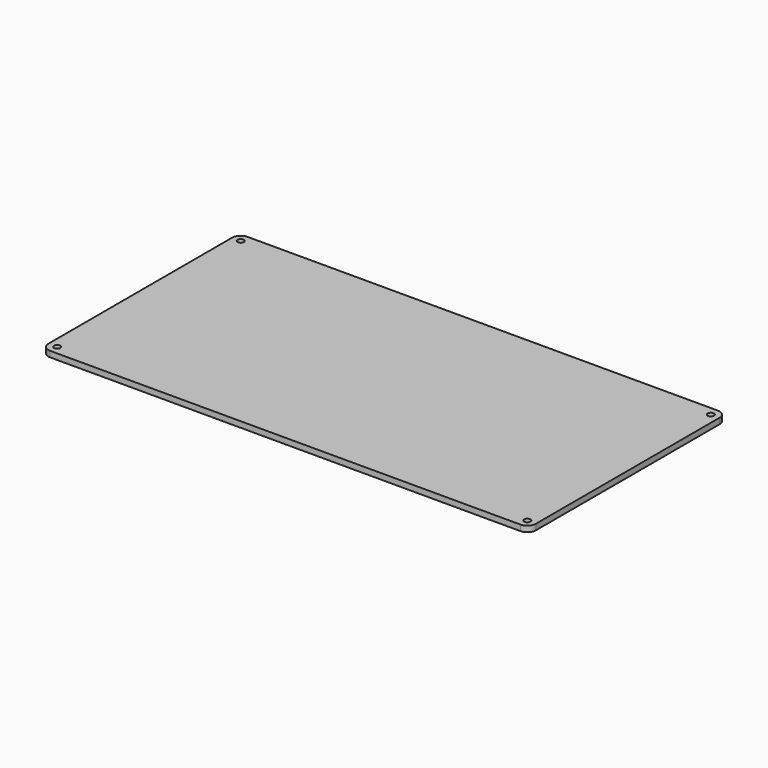
from build123d import *

# Parameters (mm, degrees)
F0_W     = 266.883794
F0_H     = 135.121294
F0_R     = 1.7272
F1_DEPTH = 3.175
F2_R     = 4.7625


with BuildPart() as f1:
    # F0 (on Top) → F1 (new body)
    with BuildSketch(Plane.XY):
        Rectangle(F0_W, F0_H)
        with Locations((-128.679397, -62.798147)):
            Circle(F0_R, mode=Mode.SUBTRACT)
        with Locations((128.679397, -62.798147)):
            Circle(F0_R, mode=Mode.SUBTRACT)
        with Locations((-128.679397, 62.798147)):
            Circle(F0_R, mode=Mode.SUBTRACT)
        with Locations((128.679397, 62.798147)):
            Circle(F0_R, mode=Mode.SUBTRACT)
    extrude(amount=F1_DEPTH)

    # F2
    f2_edges = [f1.edges().sort_by_distance(p)[0] for p in [
        (133.441897, -67.560647, 1.5875),
        (133.441897, 67.560647, 1.5875),
        (-133.441897, -67.560647, 1.5875),
        (-133.441897, 67.560647, 1.5875),
    ]]
    fillet(f2_edges, radius=F2_R)


solid = f1.part
